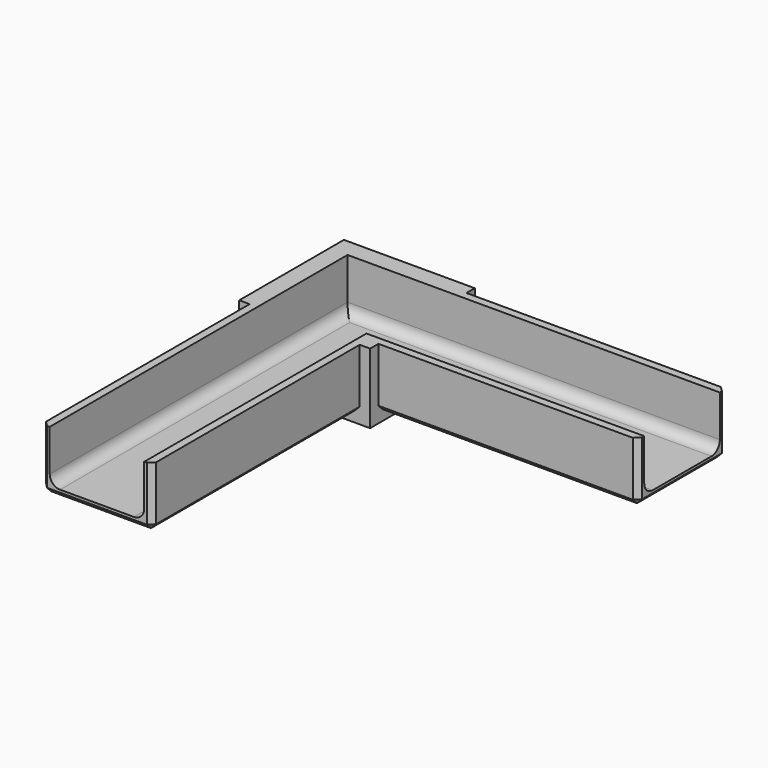
from build123d import *

# Parameters (mm, degrees)
SKETCH_W        = 25.2
SKETCH_H        = 25.2
PAD_DEPTH       = 13.5
THICKNESS_T     = -3.5
SKETCH001_W     = 18.2
SKETCH001_H     = 10
POCKET_DEPTH    = 3.5
PAD001_DEPTH    = 50
CHAMFER_SIZE    = 1
SKETCH003_W     = 18.2
SKETCH003_H     = 10
POCKET001_DEPTH = 3.5
PAD002_DEPTH    = 50
CHAMFER001_SIZE = 1
FILLET_R        = 2
FILLET001_R     = 2
FILLET002_R     = 2


with BuildPart() as part:
    # Sketch → Pad (new body)
    with BuildSketch(Plane.XY):
        Rectangle(SKETCH_W, SKETCH_H)
    extrude(amount=PAD_DEPTH)

    # Thickness
    thickness_openings = [part.faces().sort_by_distance(p)[0] for p in [
        (0, 0, 13.5),
    ]]
    offset(amount=THICKNESS_T, openings=thickness_openings, kind=Kind.INTERSECTION)

    # Sketch001 (on Face2 of Thickness) → Pocket (cut)
    with BuildSketch(Plane.XZ.offset(12.6)):
        with Locations((0, 8.5)):
            Rectangle(SKETCH001_W, SKETCH001_H)
    extrude(amount=-POCKET_DEPTH, mode=Mode.SUBTRACT)

    # Sketch002 (on Face3 of Pocket) → Pad001 (join)
    with BuildSketch(Plane.XZ.offset(12.6)):
        Polygon((-10.6, 13.5), (-10.6, 2), (10.6, 2), (10.6, 13.5), (9.1, 13.5), (9.1, 3.5), (-9.1, 3.5), (-9.1, 13.5), align=None)
    extrude(amount=PAD001_DEPTH)

    # Chamfer
    chamfer_edges = [part.edges().sort_by_distance(p)[0] for p in [
        (0, -62.6, 2),
        (10.6, -37.6, 2),
        (-10.6, -37.6, 2),
        (10.6, -62.6, 7.75),
        (-10.6, -62.6, 7.75),
    ]]
    chamfer(chamfer_edges, length=CHAMFER_SIZE)

    # Sketch003 (on Face6 of Chamfer) → Pocket001 (cut)
    with BuildSketch(Plane.YZ.offset(12.6)):
        with Locations((0, 8.5)):
            Rectangle(SKETCH003_W, SKETCH003_H)
    extrude(amount=-POCKET001_DEPTH, mode=Mode.SUBTRACT)

    # Sketch004 (on Face6 of Pocket001) → Pad002 (join)
    with BuildSketch(Plane.YZ.offset(12.6)):
        Polygon((10.6, 13.5), (10.6, 2), (-10.6, 2), (-10.6, 13.5), (-9.1, 13.5), (-9.1, 3.5), (9.1, 3.5), (9.1, 13.5), align=None)
    extrude(amount=PAD002_DEPTH)

    # Chamfer001
    chamfer001_edges = [part.edges().sort_by_distance(p)[0] for p in [
        (37.6, -10.6, 2),
        (62.6, -10.6, 7.75),
        (62.6, 0, 2),
        (62.6, 10.6, 7.75),
        (37.6, 10.6, 2),
    ]]
    chamfer(chamfer001_edges, length=CHAMFER001_SIZE)

    # Fillet
    fillet_edges = [part.edges().sort_by_distance(p)[0] for p in [
        (37.6, 9.1, 3.5),
        (10.85, 9.1, 3.5),
        (0, 9.1, 3.5),
        (-9.1, 0, 3.5),
        (-9.1, -10.85, 3.5),
        (-9.1, -37.6, 3.5),
    ]]
    fillet(fillet_edges, radius=FILLET_R)

    # Fillet001
    fillet001_edges = [part.edges().sort_by_distance(p)[0] for p in [
        (9.1, -10.85, 3.5),
    ]]
    fillet(fillet001_edges, radius=FILLET001_R)

    # Fillet002
    fillet002_edges = [part.edges().sort_by_distance(p)[0] for p in [
        (37.6, -9.1, 3.5),
    ]]
    fillet(fillet002_edges, radius=FILLET002_R)


solid = part.part
